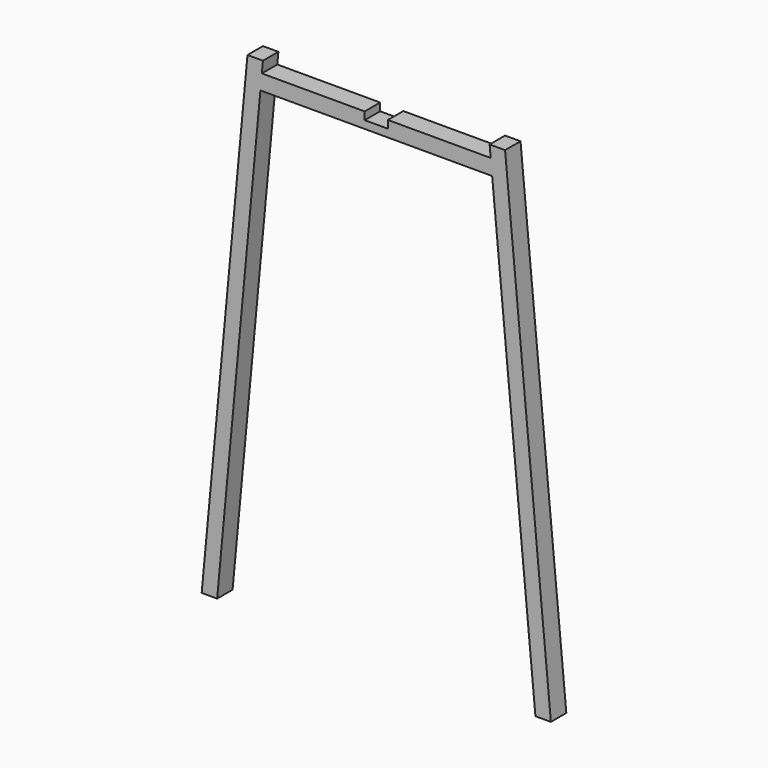
from build123d import *

# Parameters (mm, degrees)
F1_DEPTH = 25


with BuildPart() as f1:
    # F0 (on Front) → F1 (new body)
    with BuildSketch(Plane.XZ):
        Polygon((-150, 0), (0, 0), (150, 0), (206.01979, -597.379095), (226.01979, -597.379095), (166.723986, 34.934477), (146.723986, 34.934477), (148.124481, 20), (15, 20), (15, 10), (0, 10), (-15, 10), (-15, 20), (-15.339315, 20), (-148.124481, 20), (-146.723986, 34.934477), (-166.723986, 34.934477), (-226.01979, -597.379095), (-206.01979, -597.379095), align=None)
    extrude(amount=F1_DEPTH)


solid = f1.part
